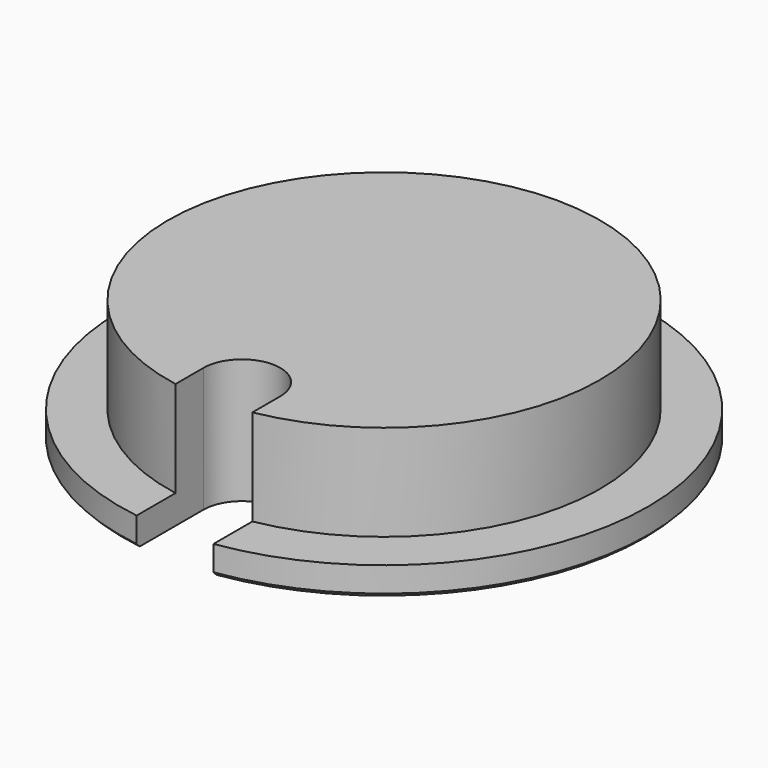
from build123d import *

# Parameters (mm, degrees)
F0_R     = 22.5
F1_DEPTH = 10
F2_R     = 27.5
F3_DEPTH = 3
F4_SIZE  = 0.4
F6_DEPTH = 25


with BuildPart() as f1:
    # F0 (on Top) → F1 (new body)
    with BuildSketch(Plane.XY):
        Circle(F0_R)
    extrude(amount=F1_DEPTH)

    # F2 (on face) → F3 (join)
    with BuildSketch(Plane(origin=(0, 0, 0), x_dir=(1, 0, 0), z_dir=(0, 0, -1))):
        Circle(F2_R)
    extrude(amount=F3_DEPTH)

    # F4
    f4_edges = [f1.edges().sort_by_distance(p)[0] for p in [
        (-27.5, 0, -3),
    ]]
    chamfer(f4_edges, length=F4_SIZE)

    # F5 (on face) → F6 (cut)
    with BuildSketch(Plane.XY.offset(10)):
        with BuildLine():
            Line((4, -27.207536), (4, -18.5))
            ThreePointArc((4, -18.5), (0, -14.5), (-4, -18.5))
            Line((-4, -18.5), (-4, -27.207536))
            ThreePointArc((-4, -27.207536), (0, -27.5), (4, -27.207536))
        make_face()
    extrude(amount=-F6_DEPTH, mode=Mode.SUBTRACT)


solid = f1.part
